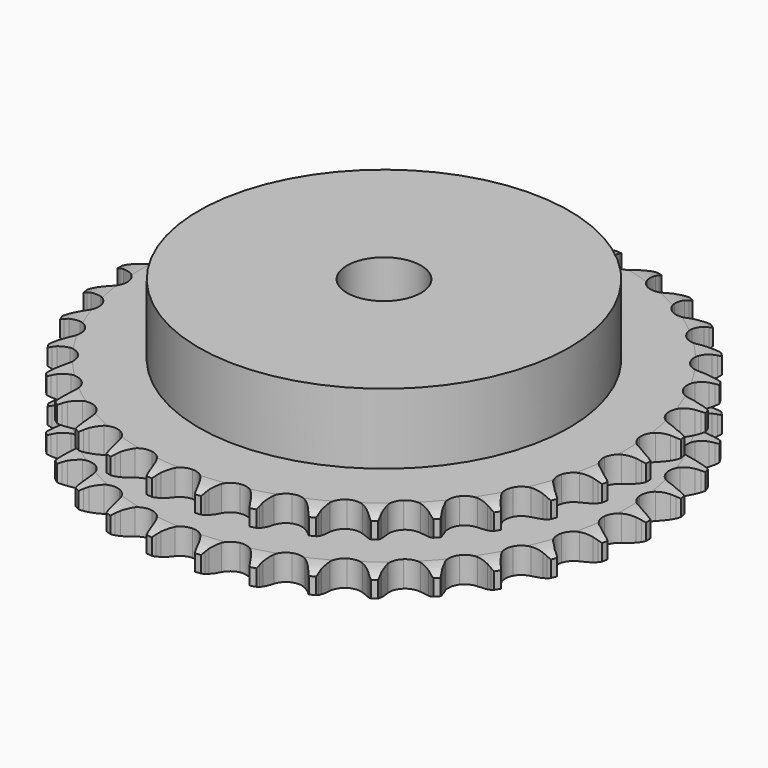
from build123d import *

# Parameters (mm, degrees)
PAD_DEPTH         = 21
SKETCH001_R       = 50
PAD001_DEPTH      = 40
SKETCH002_R       = 10
POCKET_DEPTH      = 0.001
POCKET_DEPTH_BACK = 40.001


with BuildPart() as part:
    # Sprocket → Pad (new body)
    with BuildSketch(Plane.XY):
        with BuildLine():
            ThreePointArc((-6.701282, 72.318351), (-5.941532, 71.286594), (-5.385277, 70.13233))
            Line((-5.385277, 70.13233), (-4.970115, 69.016696))
            ThreePointArc((-4.970115, 69.016696), (-4.312459, 67.5736), (-3.456247, 66.238708))
            ThreePointArc((-3.456247, 66.238708), (-1.932989, 64.96387), (0, 64.506617))
            ThreePointArc((0, 64.506617), (1.932989, 64.96387), (3.456247, 66.238708))
            ThreePointArc((3.456247, 66.238708), (4.312459, 67.5736), (4.970115, 69.016696))
            Line((4.970115, 69.016696), (5.385277, 70.13233))
            ThreePointArc((5.385277, 70.13233), (5.941532, 71.286594), (6.701282, 72.318351))
            ThreePointArc((6.701282, 72.318351), (7.258511, 71.164557), (7.5932, 69.927736))
            Line((7.5932, 69.927736), (7.796295, 68.754812))
            ThreePointArc((7.796295, 68.754812), (8.177586, 67.215444), (8.773933, 65.745952))
            ThreePointArc((8.773933, 65.745952), (10.037004, 64.212923), (11.85306, 63.408269))
            ThreePointArc((11.85306, 63.408269), (13.837156, 63.502551), (15.568728, 64.475784))
            Line((15.568728, 64.475784), (17.567274, 66.928299))
            ThreePointArc((17.567274, 66.928299), (17.860159, 67.446684), (18.180364, 67.948652))
            ThreePointArc((18.180364, 67.948652), (18.939243, 68.98105), (19.875642, 69.855636))
            ThreePointArc((19.875642, 69.855636), (20.211374, 68.619098), (20.313099, 67.341837))
            Line((20.313099, 67.341837), (20.297212, 66.151565))
            ThreePointArc((20.297212, 66.151565), (20.389152, 64.568346), (20.705327, 63.014296))
            ThreePointArc((20.705327, 63.014296), (21.665198, 61.275281), (23.302478, 60.150629))
            ThreePointArc((23.302478, 60.150629), (25.270115, 59.878729), (27.151035, 60.517215))
            Line((27.151035, 60.517215), (29.566201, 62.56074))
            ThreePointArc((29.566201, 62.56074), (29.949351, 63.01648), (30.356341, 63.451064))
            ThreePointArc((30.356341, 63.451064), (31.292001, 64.32644), (32.373161, 65.014072))
            ThreePointArc((32.373161, 65.014072), (32.475963, 63.736897), (32.34126, 62.462692))
            Line((32.34126, 62.462692), (32.106931, 61.295606))
            ThreePointArc((32.106931, 61.295606), (31.90639, 59.72245), (31.931626, 58.136764))
            ThreePointArc((31.931626, 58.136764), (32.555611, 56.250983), (33.958358, 54.844631))
            ThreePointArc((33.958358, 54.844631), (35.842531, 54.215808), (37.808746, 54.497805))
            Line((37.808746, 54.497805), (40.558286, 56.062749))
            ThreePointArc((40.558286, 56.062749), (41.018654, 56.440326), (41.498569, 56.792726))
            ThreePointArc((41.498569, 56.792726), (42.579148, 57.48127), (43.768251, 57.958531))
            ThreePointArc((43.768251, 57.958531), (43.634622, 56.684212), (43.268078, 55.456455))
            Line((43.268078, 55.456455), (42.823288, 54.352299))
            ThreePointArc((42.823288, 54.352299), (42.337095, 52.842778), (42.070532, 51.279454))
            ThreePointArc((42.070532, 51.279454), (42.33738, 49.311125), (43.457827, 47.670965))
            ThreePointArc((43.457827, 47.670965), (45.194372, 46.706633), (47.178926, 46.622537))
            Line((47.178926, 46.622537), (50.169207, 47.655609))
            ThreePointArc((50.169207, 47.655609), (50.691117, 47.942164), (51.227613, 48.20038))
            ThreePointArc((51.227613, 48.20038), (52.416313, 48.678644), (53.672865, 48.929282))
            ThreePointArc((53.672865, 48.929282), (53.307357, 47.701215), (52.721453, 46.561715))
            Line((52.721453, 46.561715), (52.081349, 45.558089))
            ThreePointArc((52.081349, 45.558089), (51.32606, 44.163608), (50.776776, 42.675884))
            ThreePointArc((50.776776, 42.675884), (50.677402, 40.692037), (51.477391, 38.873921))
            ThreePointArc((51.477391, 38.873921), (53.007173, 37.60692), (54.942484, 37.159595))
            Line((54.942484, 37.159595), (58.071676, 37.625614))
            ThreePointArc((58.071676, 37.625614), (58.637354, 37.811389), (59.212162, 37.966628))
            ThreePointArc((59.212162, 37.966628), (60.468503, 38.218326), (61.749715, 38.233805))
            ThreePointArc((61.749715, 38.233805), (61.164773, 37.09381), (60.379463, 36.081371))
            Line((60.379463, 36.081371), (59.565842, 35.212453))
            ThreePointArc((59.565842, 35.212453), (58.567178, 33.9805), (57.753878, 32.619038))
            ThreePointArc((57.753878, 32.619038), (57.291665, 30.687229), (57.743955, 28.753073))
            ThreePointArc((57.743955, 28.753073), (59.014879, 27.226548), (60.835041, 26.431227))
            Line((60.835041, 26.431227), (63.996584, 26.314324))
            ThreePointArc((63.996584, 26.314324), (64.586766, 26.392993), (65.180312, 26.439968))
            ThreePointArc((65.180312, 26.439968), (66.46151, 26.456528), (67.723752, 26.236321))
            ThreePointArc((67.723752, 26.236321), (66.939296, 25.22322), (65.981323, 24.37232))
            Line((65.981323, 24.37232), (65.021891, 23.6677))
            ThreePointArc((65.021891, 23.6677), (63.813861, 22.640227), (62.764241, 21.45139))
            ThreePointArc((62.764241, 21.45139), (61.954929, 19.637405), (62.044118, 17.653074))
            ThreePointArc((62.044118, 17.653074), (63.012904, 15.919009), (64.655935, 14.802776))
            Line((64.655935, 14.802776), (67.742165, 14.106931))
            ThreePointArc((67.742165, 14.106931), (68.336753, 14.075815), (68.928825, 14.012926))
            ThreePointArc((68.928825, 14.012926), (70.191251, 13.793785), (71.391537, 13.345391))
            ThreePointArc((71.391537, 13.345391), (70.434282, 12.493683), (69.336267, 11.833299))
            Line((69.336267, 11.833299), (68.263699, 11.316971))
            ThreePointArc((68.263699, 11.316971), (66.88744, 10.528968), (65.637243, 9.55324))
            ThreePointArc((65.637243, 9.55324), (64.508392, 7.918853), (64.231443, 5.95192))
            ThreePointArc((64.231443, 5.95192), (64.865099, 4.069367), (66.275047, 2.670234))
            Line((66.275047, 2.670234), (69.180867, 1.419144))
            ThreePointArc((69.180867, 1.419144), (69.759614, 1.279302), (70.330049, 1.108691))
            ThreePointArc((70.330049, 1.108691), (71.530713, 0.661311), (72.62817, 0))
            ThreePointArc((72.62817, 0), (71.530713, -0.661311), (70.330049, -1.108691))
            Line((70.330049, -1.108691), (69.180867, -1.419144))
            ThreePointArc((69.180867, -1.419144), (67.683247, -1.940843), (66.275047, -2.670234))
            ThreePointArc((66.275047, -2.670234), (64.865099, -4.069367), (64.231443, -5.95192))
            ThreePointArc((64.231443, -5.95192), (64.508392, -7.918853), (65.637243, -9.55324))
            Line((65.637243, -9.55324), (68.263699, -11.316971))
            ThreePointArc((68.263699, -11.316971), (68.806895, -11.560776), (69.336267, -11.833299))
            ThreePointArc((69.336267, -11.833299), (70.434282, -12.493683), (71.391537, -13.345391))
            ThreePointArc((71.391537, -13.345391), (70.191251, -13.793785), (68.928825, -14.012926))
            Line((68.928825, -14.012926), (67.742165, -14.106931))
            ThreePointArc((67.742165, -14.106931), (66.174182, -14.34456), (64.655935, -14.802776))
            ThreePointArc((64.655935, -14.802776), (63.012904, -15.919009), (62.044118, -17.653074))
            ThreePointArc((62.044118, -17.653074), (61.954929, -19.637405), (62.764241, -21.45139))
            Line((62.764241, -21.45139), (65.021891, -23.6677))
            ThreePointArc((65.021891, -23.6677), (65.51104, -24.007165), (65.981323, -24.37232))
            ThreePointArc((65.981323, -24.37232), (66.939296, -25.22322), (67.723752, -26.236321))
            ThreePointArc((67.723752, -26.236321), (66.46151, -26.456528), (65.180312, -26.439968))
            Line((65.180312, -26.439968), (63.996584, -26.314324))
            ThreePointArc((63.996584, -26.314324), (62.411635, -26.259791), (60.835041, -26.431227))
            ThreePointArc((60.835041, -26.431227), (59.014879, -27.226548), (57.743955, -28.753073))
            ThreePointArc((57.743955, -28.753073), (57.291665, -30.687229), (57.753878, -32.619038))
            Line((57.753878, -32.619038), (59.565842, -35.212453))
            ThreePointArc((59.565842, -35.212453), (59.984285, -35.63602), (60.379463, -36.081371))
            ThreePointArc((60.379463, -36.081371), (61.164773, -37.09381), (61.749715, -38.233805))
            ThreePointArc((61.749715, -38.233805), (60.468503, -38.218326), (59.212162, -37.966628))
            Line((59.212162, -37.966628), (58.071676, -37.625614))
            ThreePointArc((58.071676, -37.625614), (56.523734, -37.280776), (54.942484, -37.159595))
            ThreePointArc((54.942484, -37.159595), (53.007173, -37.60692), (51.477391, -38.873921))
            ThreePointArc((51.477391, -38.873921), (50.677402, -40.692037), (50.776776, -42.675884))
            Line((50.776776, -42.675884), (52.081349, -45.558089))
            ThreePointArc((52.081349, -45.558089), (52.414837, -46.051332), (52.721453, -46.561715))
            ThreePointArc((52.721453, -46.561715), (53.307357, -47.701215), (53.672865, -48.929282))
            ThreePointArc((53.672865, -48.929282), (52.416313, -48.678644), (51.227613, -48.20038))
            Line((51.227613, -48.20038), (50.169207, -47.655609))
            ThreePointArc((50.169207, -47.655609), (48.710986, -47.032209), (47.178926, -46.622537))
            ThreePointArc((47.178926, -46.622537), (45.194372, -46.706633), (43.457827, -47.670965))
            ThreePointArc((43.457827, -47.670965), (42.33738, -49.311125), (42.070532, -51.279454))
            Line((42.070532, -51.279454), (42.823288, -54.352299))
            ThreePointArc((42.823288, -54.352299), (43.060465, -54.898422), (43.268078, -55.456455))
            ThreePointArc((43.268078, -55.456455), (43.634622, -56.684212), (43.768251, -57.958531))
            ThreePointArc((43.768251, -57.958531), (42.579148, -57.48127), (41.498569, -56.792726))
            Line((41.498569, -56.792726), (40.558286, -56.062749))
            ThreePointArc((40.558286, -56.062749), (39.239443, -55.182016), (37.808746, -54.497805))
            ThreePointArc((37.808746, -54.497805), (35.842531, -54.215808), (33.958358, -54.844631))
            ThreePointArc((33.958358, -54.844631), (32.555611, -56.250983), (31.931626, -58.136764))
            Line((31.931626, -58.136764), (32.106931, -61.295606))
            ThreePointArc((32.106931, -61.295606), (32.23972, -61.876012), (32.34126, -62.462692))
            ThreePointArc((32.34126, -62.462692), (32.475963, -63.736897), (32.373161, -65.014072))
            ThreePointArc((32.373161, -65.014072), (31.292001, -64.32644), (30.356341, -63.451064))
            Line((30.356341, -63.451064), (29.566201, -62.56074))
            ThreePointArc((29.566201, -62.56074), (28.431648, -61.452666), (27.151035, -60.517215))
            ThreePointArc((27.151035, -60.517215), (25.270115, -59.878729), (23.302478, -60.150629))
            ThreePointArc((23.302478, -60.150629), (21.665198, -61.275281), (20.705327, -63.014296))
            Line((20.705327, -63.014296), (20.297212, -66.151565))
            ThreePointArc((20.297212, -66.151565), (20.32109, -66.746488), (20.313099, -67.341837))
            ThreePointArc((20.313099, -67.341837), (20.211374, -68.619098), (19.875642, -69.855636))
            ThreePointArc((19.875642, -69.855636), (18.939243, -68.98105), (18.180364, -67.948652))
            Line((18.180364, -67.948652), (17.567274, -66.928299))
            ThreePointArc((17.567274, -66.928299), (16.655647, -65.630619), (15.568728, -64.475784))
            ThreePointArc((15.568728, -64.475784), (13.837156, -63.502551), (11.85306, -63.408269))
            ThreePointArc((11.85306, -63.408269), (10.037004, -64.212923), (8.773933, -65.745952))
            Line((8.773933, -65.745952), (7.796295, -68.754812))
            ThreePointArc((7.796295, -68.754812), (7.71045, -69.343993), (7.5932, -69.927736))
            ThreePointArc((7.5932, -69.927736), (7.258511, -71.164557), (6.701282, -72.318351))
            ThreePointArc((6.701282, -72.318351), (5.941532, -71.286594), (5.385277, -70.13233))
            Line((5.385277, -70.13233), (4.970115, -69.016696))
            ThreePointArc((4.970115, -69.016696), (4.312459, -67.5736), (3.456247, -66.238708))
            ThreePointArc((3.456247, -66.238708), (1.932989, -64.96387), (0, -64.506617))
            ThreePointArc((0, -64.506617), (-1.932989, -64.96387), (-3.456247, -66.238708))
            Line((-3.456247, -66.238708), (-4.970115, -69.016696))
            ThreePointArc((-4.970115, -69.016696), (-5.16276, -69.580071), (-5.385277, -70.13233))
            ThreePointArc((-5.385277, -70.13233), (-5.941532, -71.286594), (-6.701282, -72.318351))
            ThreePointArc((-6.701282, -72.318351), (-7.258511, -71.164557), (-7.5932, -69.927736))
            Line((-7.5932, -69.927736), (-7.796295, -68.754812))
            ThreePointArc((-7.796295, -68.754812), (-8.177586, -67.215444), (-8.773933, -65.745952))
            ThreePointArc((-8.773933, -65.745952), (-10.037004, -64.212923), (-11.85306, -63.408269))
            ThreePointArc((-11.85306, -63.408269), (-13.837156, -63.502551), (-15.568728, -64.475784))
            Line((-15.568728, -64.475784), (-17.567274, -66.928299))
            ThreePointArc((-17.567274, -66.928299), (-17.860159, -67.446684), (-18.180364, -67.948652))
            ThreePointArc((-18.180364, -67.948652), (-18.939243, -68.98105), (-19.875642, -69.855636))
            ThreePointArc((-19.875642, -69.855636), (-20.211374, -68.619098), (-20.313099, -67.341837))
            Line((-20.313099, -67.341837), (-20.297212, -66.151565))
            ThreePointArc((-20.297212, -66.151565), (-20.389152, -64.568346), (-20.705327, -63.014296))
            ThreePointArc((-20.705327, -63.014296), (-21.665198, -61.275281), (-23.302478, -60.150629))
            ThreePointArc((-23.302478, -60.150629), (-25.270115, -59.878729), (-27.151035, -60.517215))
            Line((-27.151035, -60.517215), (-29.566201, -62.56074))
            ThreePointArc((-29.566201, -62.56074), (-29.949351, -63.01648), (-30.356341, -63.451064))
            ThreePointArc((-30.356341, -63.451064), (-31.292001, -64.32644), (-32.373161, -65.014072))
            ThreePointArc((-32.373161, -65.014072), (-32.475963, -63.736897), (-32.34126, -62.462692))
            Line((-32.34126, -62.462692), (-32.106931, -61.295606))
            ThreePointArc((-32.106931, -61.295606), (-31.90639, -59.72245), (-31.931626, -58.136764))
            ThreePointArc((-31.931626, -58.136764), (-32.555611, -56.250983), (-33.958358, -54.844631))
            ThreePointArc((-33.958358, -54.844631), (-35.842531, -54.215808), (-37.808746, -54.497805))
            Line((-37.808746, -54.497805), (-40.558286, -56.062749))
            ThreePointArc((-40.558286, -56.062749), (-41.018654, -56.440326), (-41.498569, -56.792726))
            ThreePointArc((-41.498569, -56.792726), (-42.579148, -57.48127), (-43.768251, -57.958531))
            ThreePointArc((-43.768251, -57.958531), (-43.634622, -56.684212), (-43.268078, -55.456455))
            Line((-43.268078, -55.456455), (-42.823288, -54.352299))
            ThreePointArc((-42.823288, -54.352299), (-42.337095, -52.842778), (-42.070532, -51.279454))
            ThreePointArc((-42.070532, -51.279454), (-42.33738, -49.311125), (-43.457827, -47.670965))
            ThreePointArc((-43.457827, -47.670965), (-45.194372, -46.706633), (-47.178926, -46.622537))
            Line((-47.178926, -46.622537), (-50.169207, -47.655609))
            ThreePointArc((-50.169207, -47.655609), (-50.691117, -47.942164), (-51.227613, -48.20038))
            ThreePointArc((-51.227613, -48.20038), (-52.416313, -48.678644), (-53.672865, -48.929282))
            ThreePointArc((-53.672865, -48.929282), (-53.307357, -47.701215), (-52.721453, -46.561715))
            Line((-52.721453, -46.561715), (-52.081349, -45.558089))
            ThreePointArc((-52.081349, -45.558089), (-51.32606, -44.163608), (-50.776776, -42.675884))
            ThreePointArc((-50.776776, -42.675884), (-50.677402, -40.692037), (-51.477391, -38.873921))
            ThreePointArc((-51.477391, -38.873921), (-53.007173, -37.60692), (-54.942484, -37.159595))
            Line((-54.942484, -37.159595), (-58.071676, -37.625614))
            ThreePointArc((-58.071676, -37.625614), (-58.637354, -37.811389), (-59.212162, -37.966628))
            ThreePointArc((-59.212162, -37.966628), (-60.468503, -38.218326), (-61.749715, -38.233805))
            ThreePointArc((-61.749715, -38.233805), (-61.164773, -37.09381), (-60.379463, -36.081371))
            Line((-60.379463, -36.081371), (-59.565842, -35.212453))
            ThreePointArc((-59.565842, -35.212453), (-58.567178, -33.9805), (-57.753878, -32.619038))
            ThreePointArc((-57.753878, -32.619038), (-57.291665, -30.687229), (-57.743955, -28.753073))
            ThreePointArc((-57.743955, -28.753073), (-59.014879, -27.226548), (-60.835041, -26.431227))
            Line((-60.835041, -26.431227), (-63.996584, -26.314324))
            ThreePointArc((-63.996584, -26.314324), (-64.586766, -26.392993), (-65.180312, -26.439968))
            ThreePointArc((-65.180312, -26.439968), (-66.46151, -26.456528), (-67.723752, -26.236321))
            ThreePointArc((-67.723752, -26.236321), (-66.939296, -25.22322), (-65.981323, -24.37232))
            Line((-65.981323, -24.37232), (-65.021891, -23.6677))
            ThreePointArc((-65.021891, -23.6677), (-63.813861, -22.640227), (-62.764241, -21.45139))
            ThreePointArc((-62.764241, -21.45139), (-61.954929, -19.637405), (-62.044118, -17.653074))
            ThreePointArc((-62.044118, -17.653074), (-63.012904, -15.919009), (-64.655935, -14.802776))
            Line((-64.655935, -14.802776), (-67.742165, -14.106931))
            ThreePointArc((-67.742165, -14.106931), (-68.336753, -14.075815), (-68.928825, -14.012926))
            ThreePointArc((-68.928825, -14.012926), (-70.191251, -13.793785), (-71.391537, -13.345391))
            ThreePointArc((-71.391537, -13.345391), (-70.434282, -12.493683), (-69.336267, -11.833299))
            Line((-69.336267, -11.833299), (-68.263699, -11.316971))
            ThreePointArc((-68.263699, -11.316971), (-66.88744, -10.528968), (-65.637243, -9.55324))
            ThreePointArc((-65.637243, -9.55324), (-64.508392, -7.918853), (-64.231443, -5.95192))
            ThreePointArc((-64.231443, -5.95192), (-64.865099, -4.069367), (-66.275047, -2.670234))
            Line((-66.275047, -2.670234), (-69.180867, -1.419144))
            ThreePointArc((-69.180867, -1.419144), (-69.759614, -1.279302), (-70.330049, -1.108691))
            ThreePointArc((-70.330049, -1.108691), (-71.530713, -0.661311), (-72.62817, 0))
            ThreePointArc((-72.62817, 0), (-71.530713, 0.661311), (-70.330049, 1.108691))
            Line((-70.330049, 1.108691), (-69.180867, 1.419144))
            ThreePointArc((-69.180867, 1.419144), (-67.683247, 1.940843), (-66.275047, 2.670234))
            ThreePointArc((-66.275047, 2.670234), (-64.865099, 4.069367), (-64.231443, 5.95192))
            ThreePointArc((-64.231443, 5.95192), (-64.508392, 7.918853), (-65.637243, 9.55324))
            Line((-65.637243, 9.55324), (-68.263699, 11.316971))
            ThreePointArc((-68.263699, 11.316971), (-68.806895, 11.560776), (-69.336267, 11.833299))
            ThreePointArc((-69.336267, 11.833299), (-70.434282, 12.493683), (-71.391537, 13.345391))
            ThreePointArc((-71.391537, 13.345391), (-70.191251, 13.793785), (-68.928825, 14.012926))
            Line((-68.928825, 14.012926), (-67.742165, 14.106931))
            ThreePointArc((-67.742165, 14.106931), (-66.174182, 14.34456), (-64.655935, 14.802776))
            ThreePointArc((-64.655935, 14.802776), (-63.012904, 15.919009), (-62.044118, 17.653074))
            ThreePointArc((-62.044118, 17.653074), (-61.954929, 19.637405), (-62.764241, 21.45139))
            Line((-62.764241, 21.45139), (-65.021891, 23.6677))
            ThreePointArc((-65.021891, 23.6677), (-65.51104, 24.007165), (-65.981323, 24.37232))
            ThreePointArc((-65.981323, 24.37232), (-66.939296, 25.22322), (-67.723752, 26.236321))
            ThreePointArc((-67.723752, 26.236321), (-66.46151, 26.456528), (-65.180312, 26.439968))
            Line((-65.180312, 26.439968), (-63.996584, 26.314324))
            ThreePointArc((-63.996584, 26.314324), (-62.411635, 26.259791), (-60.835041, 26.431227))
            ThreePointArc((-60.835041, 26.431227), (-59.014879, 27.226548), (-57.743955, 28.753073))
            ThreePointArc((-57.743955, 28.753073), (-57.291665, 30.687229), (-57.753878, 32.619038))
            Line((-57.753878, 32.619038), (-59.565842, 35.212453))
            ThreePointArc((-59.565842, 35.212453), (-59.984285, 35.63602), (-60.379463, 36.081371))
            ThreePointArc((-60.379463, 36.081371), (-61.164773, 37.09381), (-61.749715, 38.233805))
            ThreePointArc((-61.749715, 38.233805), (-60.468503, 38.218326), (-59.212162, 37.966628))
            Line((-59.212162, 37.966628), (-58.071676, 37.625614))
            ThreePointArc((-58.071676, 37.625614), (-56.523734, 37.280776), (-54.942484, 37.159595))
            ThreePointArc((-54.942484, 37.159595), (-53.007173, 37.60692), (-51.477391, 38.873921))
            ThreePointArc((-51.477391, 38.873921), (-50.677402, 40.692037), (-50.776776, 42.675884))
            Line((-50.776776, 42.675884), (-52.081349, 45.558089))
            ThreePointArc((-52.081349, 45.558089), (-52.414837, 46.051332), (-52.721453, 46.561715))
            ThreePointArc((-52.721453, 46.561715), (-53.307357, 47.701215), (-53.672865, 48.929282))
            ThreePointArc((-53.672865, 48.929282), (-52.416313, 48.678644), (-51.227613, 48.20038))
            Line((-51.227613, 48.20038), (-50.169207, 47.655609))
            ThreePointArc((-50.169207, 47.655609), (-48.710986, 47.032209), (-47.178926, 46.622537))
            ThreePointArc((-47.178926, 46.622537), (-45.194372, 46.706633), (-43.457827, 47.670965))
            ThreePointArc((-43.457827, 47.670965), (-42.33738, 49.311125), (-42.070532, 51.279454))
            Line((-42.070532, 51.279454), (-42.823288, 54.352299))
            ThreePointArc((-42.823288, 54.352299), (-43.060465, 54.898422), (-43.268078, 55.456455))
            ThreePointArc((-43.268078, 55.456455), (-43.634622, 56.684212), (-43.768251, 57.958531))
            ThreePointArc((-43.768251, 57.958531), (-42.579148, 57.48127), (-41.498569, 56.792726))
            Line((-41.498569, 56.792726), (-40.558286, 56.062749))
            ThreePointArc((-40.558286, 56.062749), (-39.239443, 55.182016), (-37.808746, 54.497805))
            ThreePointArc((-37.808746, 54.497805), (-35.842531, 54.215808), (-33.958358, 54.844631))
            ThreePointArc((-33.958358, 54.844631), (-32.555611, 56.250983), (-31.931626, 58.136764))
            Line((-31.931626, 58.136764), (-32.106931, 61.295606))
            ThreePointArc((-32.106931, 61.295606), (-32.23972, 61.876012), (-32.34126, 62.462692))
            ThreePointArc((-32.34126, 62.462692), (-32.475963, 63.736897), (-32.373161, 65.014072))
            ThreePointArc((-32.373161, 65.014072), (-31.292001, 64.32644), (-30.356341, 63.451064))
            Line((-30.356341, 63.451064), (-29.566201, 62.56074))
            ThreePointArc((-29.566201, 62.56074), (-28.431648, 61.452666), (-27.151035, 60.517215))
            ThreePointArc((-27.151035, 60.517215), (-25.270115, 59.878729), (-23.302478, 60.150629))
            ThreePointArc((-23.302478, 60.150629), (-21.665198, 61.275281), (-20.705327, 63.014296))
            Line((-20.705327, 63.014296), (-20.297212, 66.151565))
            ThreePointArc((-20.297212, 66.151565), (-20.32109, 66.746488), (-20.313099, 67.341837))
            ThreePointArc((-20.313099, 67.341837), (-20.211374, 68.619098), (-19.875642, 69.855636))
            ThreePointArc((-19.875642, 69.855636), (-18.939243, 68.98105), (-18.180364, 67.948652))
            Line((-18.180364, 67.948652), (-17.567274, 66.928299))
            ThreePointArc((-17.567274, 66.928299), (-16.655647, 65.630619), (-15.568728, 64.475784))
            ThreePointArc((-15.568728, 64.475784), (-13.837156, 63.502551), (-11.85306, 63.408269))
            ThreePointArc((-11.85306, 63.408269), (-10.037004, 64.212923), (-8.773933, 65.745952))
            Line((-8.773933, 65.745952), (-7.796295, 68.754812))
            ThreePointArc((-7.796295, 68.754812), (-7.71045, 69.343993), (-7.5932, 69.927736))
            ThreePointArc((-7.5932, 69.927736), (-7.258511, 71.164557), (-6.701282, 72.318351))
        make_face()
    extrude(amount=PAD_DEPTH)

    # Sketch → Groove (revolve, cut)
    with BuildSketch(Plane.XZ):
        with BuildLine():
            ThreePointArc((65.633431, 0), (68.54032, 0.329167), (71.3, 1.3))
            Line((71.3, 1.3), (71.3, 5.7))
            ThreePointArc((71.3, 5.7), (68.54032, 6.670833), (65.633431, 7))
            Line((50, 7), (65.633431, 7))
            Line((50, 14), (50, 7))
            Line((65.633431, 14), (50, 14))
            ThreePointArc((65.633431, 14), (68.54032, 14.329167), (71.3, 15.3))
            Line((71.3, 15.3), (71.3, 19.7))
            ThreePointArc((71.3, 19.7), (68.54032, 20.670833), (65.633431, 21))
            Line((65.633431, 21), (75.633431, 21))
            Line((75.633431, 21), (75.633431, 0))
            Line((65.633431, 0), (75.633431, 0))
        make_face()
    revolve(axis=Axis((0, 0, 0), (0, 0, 1)), mode=Mode.SUBTRACT)

    # Sketch001 → Pad001 (join)
    with BuildSketch(Plane.XY):
        Circle(SKETCH001_R)
    extrude(amount=PAD001_DEPTH)

    # Sketch002 → Pocket (cut, two sides)
    with BuildSketch(Plane.XY) as pocket_sk:
        Circle(SKETCH002_R)
    extrude(amount=-POCKET_DEPTH, mode=Mode.SUBTRACT)
    extrude(pocket_sk.sketch, amount=POCKET_DEPTH_BACK, mode=Mode.SUBTRACT)


solid = part.part
